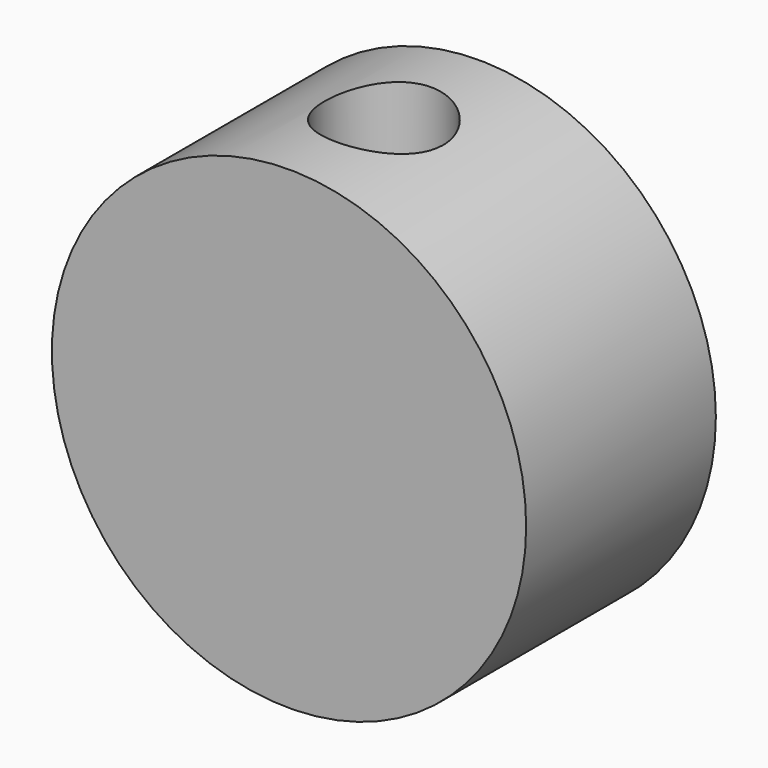
from build123d import *

# Parameters (mm, degrees)
F0_R     = 101.6
F1_DEPTH = 101.6
F3_R     = 25.4
F4_DEPTH = 76.2
F6_R     = 25.4
F7_DEPTH = 76.2


with BuildPart() as f1:
    # F0 (on Front) → F1 (new body)
    with BuildSketch(Plane.XZ):
        Circle(F0_R)
    extrude(amount=F1_DEPTH)

    # F3 (on offset) → F4 (cut)
    with BuildSketch(Plane.XY.offset(101.6)):
        with Locations((0, -50.8)):
            Circle(F3_R)
    extrude(amount=-F4_DEPTH, mode=Mode.SUBTRACT)

    # F6 (on offset) → F7 (cut)
    with BuildSketch(Plane.XY.offset(-101.6)):
        with Locations((0, -50.8)):
            Circle(F6_R)
    extrude(amount=F7_DEPTH, mode=Mode.SUBTRACT)


solid = f1.part
